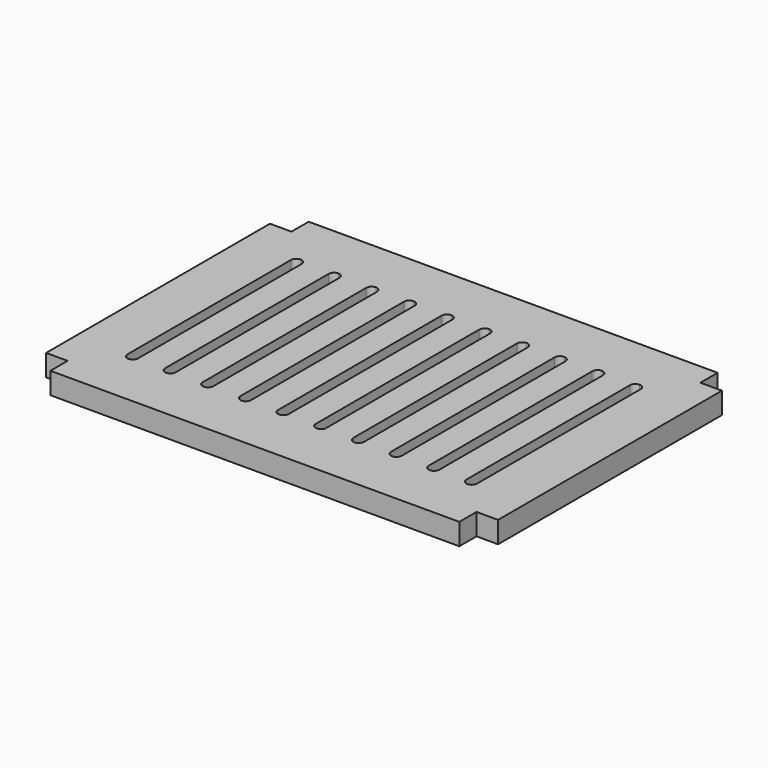
from build123d import *

# Parameters (mm, degrees)
F0_W     = 84
F0_H     = 60
F1_DEPTH = 4
F2_W     = 4
F2_H     = 4
F3_DEPTH = 4
F5_DEPTH = 4


with BuildPart() as f1:
    # F0 (on Top) → F1 (new body)
    with BuildSketch(Plane.XY):
        with Locations((42, 30)):
            Rectangle(F0_W, F0_H)
    extrude(amount=F1_DEPTH)

    # F2 (on face) → F3 (cut, through all)
    with BuildSketch(Plane.XY.offset(4)):
        with Locations((2, 2)):
            Rectangle(F2_W, F2_H)
        with Locations((2, 58)):
            Rectangle(F2_W, F2_H)
        with Locations((82, 2)):
            Rectangle(F2_W, F2_H)
        with Locations((82, 58)):
            Rectangle(F2_W, F2_H)
    extrude(amount=-F3_DEPTH, mode=Mode.SUBTRACT)

    # F4 (on face) → F5 (cut, through all)
    with BuildSketch(Plane.XY.offset(4)):
        with BuildLine():
            ThreePointArc((10.5, 50), (9.792893, 49.707107), (9.5, 49))
            Line((9.5, 49), (9.5, 11))
            ThreePointArc((9.5, 11), (9.792893, 10.292893), (10.5, 10))
            ThreePointArc((10.5, 10), (11.207107, 10.292893), (11.5, 11))
            Line((11.5, 11), (11.5, 49))
            ThreePointArc((11.5, 49), (11.207107, 49.707107), (10.5, 50))
        make_face()
        with BuildLine():
            ThreePointArc((17.5, 50), (16.792893, 49.707107), (16.5, 49))
            Line((16.5, 49), (16.5, 11))
            ThreePointArc((16.5, 11), (16.792893, 10.292893), (17.5, 10))
            ThreePointArc((17.5, 10), (18.207107, 10.292893), (18.5, 11))
            Line((18.5, 11), (18.5, 49))
            ThreePointArc((18.5, 49), (18.207107, 49.707107), (17.5, 50))
        make_face()
        with BuildLine():
            ThreePointArc((24.5, 50), (23.792893, 49.707107), (23.5, 49))
            Line((23.5, 49), (23.5, 11))
            ThreePointArc((23.5, 11), (23.792893, 10.292893), (24.5, 10))
            ThreePointArc((24.5, 10), (25.207107, 10.292893), (25.5, 11))
            Line((25.5, 11), (25.5, 49))
            ThreePointArc((25.5, 49), (25.207107, 49.707107), (24.5, 50))
        make_face()
        with BuildLine():
            ThreePointArc((31.5, 50), (30.792893, 49.707107), (30.5, 49))
            Line((30.5, 49), (30.5, 11))
            ThreePointArc((30.5, 11), (30.792893, 10.292893), (31.5, 10))
            ThreePointArc((31.5, 10), (32.207107, 10.292893), (32.5, 11))
            Line((32.5, 11), (32.5, 49))
            ThreePointArc((32.5, 49), (32.207107, 49.707107), (31.5, 50))
        make_face()
        with BuildLine():
            ThreePointArc((38.5, 50), (37.792893, 49.707107), (37.5, 49))
            Line((37.5, 49), (37.5, 11))
            ThreePointArc((37.5, 11), (37.792893, 10.292893), (38.5, 10))
            ThreePointArc((38.5, 10), (39.207107, 10.292893), (39.5, 11))
            Line((39.5, 11), (39.5, 49))
            ThreePointArc((39.5, 49), (39.207107, 49.707107), (38.5, 50))
        make_face()
        with BuildLine():
            ThreePointArc((45.5, 50), (44.792893, 49.707107), (44.5, 49))
            Line((44.5, 49), (44.5, 11))
            ThreePointArc((44.5, 11), (44.792893, 10.292893), (45.5, 10))
            ThreePointArc((45.5, 10), (46.207107, 10.292893), (46.5, 11))
            Line((46.5, 11), (46.5, 49))
            ThreePointArc((46.5, 49), (46.207107, 49.707107), (45.5, 50))
        make_face()
        with BuildLine():
            ThreePointArc((52.5, 50), (51.792893, 49.707107), (51.5, 49))
            Line((51.5, 49), (51.5, 11))
            ThreePointArc((51.5, 11), (51.792893, 10.292893), (52.5, 10))
            ThreePointArc((52.5, 10), (53.207107, 10.292893), (53.5, 11))
            Line((53.5, 11), (53.5, 49))
            ThreePointArc((53.5, 49), (53.207107, 49.707107), (52.5, 50))
        make_face()
        with BuildLine():
            ThreePointArc((59.5, 50), (58.792893, 49.707107), (58.5, 49))
            Line((58.5, 49), (58.5, 11))
            ThreePointArc((58.5, 11), (58.792893, 10.292893), (59.5, 10))
            ThreePointArc((59.5, 10), (60.207107, 10.292893), (60.5, 11))
            Line((60.5, 11), (60.5, 49))
            ThreePointArc((60.5, 49), (60.207107, 49.707107), (59.5, 50))
        make_face()
        with BuildLine():
            ThreePointArc((66.5, 50), (65.792893, 49.707107), (65.5, 49))
            Line((65.5, 49), (65.5, 11))
            ThreePointArc((65.5, 11), (65.792893, 10.292893), (66.5, 10))
            ThreePointArc((66.5, 10), (67.207107, 10.292893), (67.5, 11))
            Line((67.5, 11), (67.5, 49))
            ThreePointArc((67.5, 49), (67.207107, 49.707107), (66.5, 50))
        make_face()
        with BuildLine():
            ThreePointArc((73.5, 50), (72.792893, 49.707107), (72.5, 49))
            Line((72.5, 49), (72.5, 11))
            ThreePointArc((72.5, 11), (72.792893, 10.292893), (73.5, 10))
            ThreePointArc((73.5, 10), (74.207107, 10.292893), (74.5, 11))
            Line((74.5, 11), (74.5, 49))
            ThreePointArc((74.5, 49), (74.207107, 49.707107), (73.5, 50))
        make_face()
    extrude(amount=-F5_DEPTH, mode=Mode.SUBTRACT)


solid = f1.part
